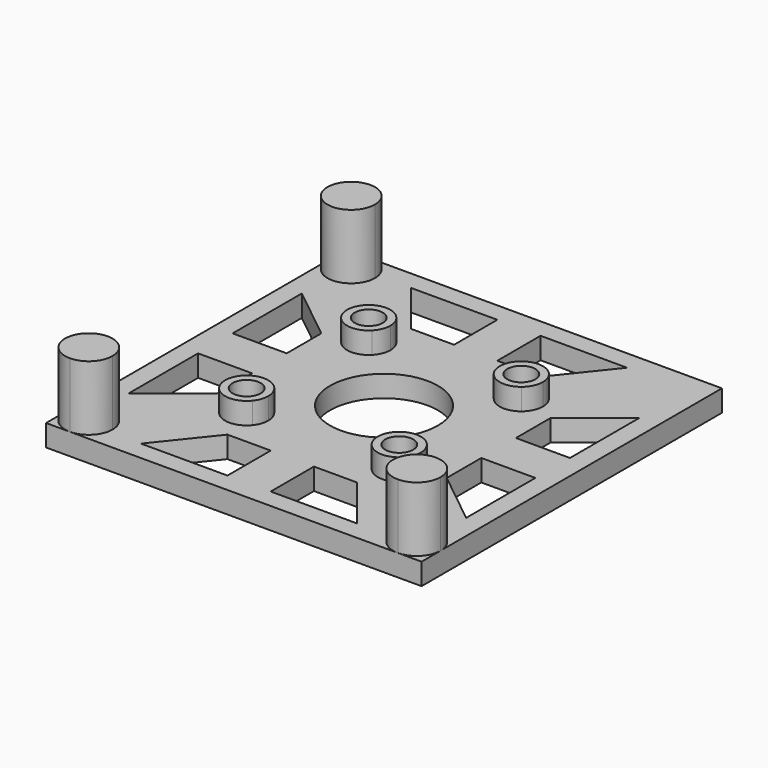
from build123d import *

# Parameters (mm, degrees)
F0_W      = 87
F0_H      = 87
F1_DEPTH  = 5
F3_DEPTH  = 5
F6_D      = 6.5
F8_DEPTH  = 15
F9_R      = 12.5
F10_DEPTH = 5


with BuildPart() as f1:
    # F0 (on Top) → F1 (new body)
    with BuildSketch(Plane.XY):
        Rectangle(F0_W, F0_H)
    extrude(amount=F1_DEPTH)

    # F2 (on face) → F3 (join)
    with BuildSketch(Plane.XY.offset(5)):
        with BuildLine():
            ThreePointArc((-17.67767, 17.67767), (-15.821292, 19.356826), (-13.806304, 20.841928))
            ThreePointArc((-13.806304, 20.841928), (-21.213203, 21.213203), (-20.841928, 13.806304))
            ThreePointArc((-20.841928, 13.806304), (-19.356826, 15.821292), (-17.67767, 17.67767))
        make_face()
        with BuildLine():
            ThreePointArc((-20.841928, 13.806304), (-17.427356, 12.683939), (-14.142136, 14.142136))
            Line((-14.142136, 14.142136), (-17.67767, 17.67767))
            ThreePointArc((-17.67767, 17.67767), (-19.356826, 15.821292), (-20.841928, 13.806304))
        make_face()
        with BuildLine():
            ThreePointArc((-12.67767, 17.67767), (-12.968273, 19.357428), (-13.806304, 20.841928))
            ThreePointArc((-13.806304, 20.841928), (-15.821292, 19.356826), (-17.67767, 17.67767))
            Line((-17.67767, 17.67767), (-14.142136, 14.142136))
            ThreePointArc((-14.142136, 14.142136), (-13.058272, 15.764252), (-12.67767, 17.67767))
        make_face()
        with BuildLine():
            ThreePointArc((-12.67767, -17.67767), (-13.058272, -15.764252), (-14.142136, -14.142136))
            Line((-14.142136, -14.142136), (-17.67767, -17.67767))
            ThreePointArc((-17.67767, -17.67767), (-15.821292, -19.356826), (-13.806304, -20.841928))
            ThreePointArc((-13.806304, -20.841928), (-12.968273, -19.357428), (-12.67767, -17.67767))
        make_face()
        with BuildLine():
            Line((-17.67767, -17.67767), (-14.142136, -14.142136))
            ThreePointArc((-14.142136, -14.142136), (-17.427356, -12.683939), (-20.841928, -13.806304))
            ThreePointArc((-20.841928, -13.806304), (-19.356826, -15.821292), (-17.67767, -17.67767))
        make_face()
        with BuildLine():
            ThreePointArc((-20.841928, -13.806304), (-21.213203, -21.213203), (-13.806304, -20.841928))
            ThreePointArc((-13.806304, -20.841928), (-15.821292, -19.356826), (-17.67767, -17.67767))
            ThreePointArc((-17.67767, -17.67767), (-19.356826, -15.821292), (-20.841928, -13.806304))
        make_face()
        with BuildLine():
            ThreePointArc((13.806304, -20.841928), (15.821292, -19.356826), (17.67767, -17.67767))
            Line((17.67767, -17.67767), (14.142136, -14.142136))
            ThreePointArc((14.142136, -14.142136), (12.683939, -17.427356), (13.806304, -20.841928))
        make_face()
        with BuildLine():
            ThreePointArc((17.67767, -17.67767), (19.356826, -15.821292), (20.841928, -13.806304))
            ThreePointArc((20.841928, -13.806304), (17.427356, -12.683939), (14.142136, -14.142136))
            Line((14.142136, -14.142136), (17.67767, -17.67767))
        make_face()
        with BuildLine():
            ThreePointArc((22.67767, -17.67767), (22.195484, -15.535392), (20.841928, -13.806304))
            ThreePointArc((20.841928, -13.806304), (19.356826, -15.821292), (17.67767, -17.67767))
            ThreePointArc((17.67767, -17.67767), (15.821292, -19.356826), (13.806304, -20.841928))
            ThreePointArc((13.806304, -20.841928), (19.357428, -22.387066), (22.67767, -17.67767))
        make_face()
        with BuildLine():
            ThreePointArc((17.67767, 17.67767), (19.356826, 15.821292), (20.841928, 13.806304))
            ThreePointArc((20.841928, 13.806304), (22.195484, 15.535392), (22.67767, 17.67767))
            ThreePointArc((22.67767, 17.67767), (19.357428, 22.387066), (13.806304, 20.841928))
            ThreePointArc((13.806304, 20.841928), (15.821292, 19.356826), (17.67767, 17.67767))
        make_face()
        with BuildLine():
            ThreePointArc((14.142136, 14.142136), (17.427356, 12.683939), (20.841928, 13.806304))
            ThreePointArc((20.841928, 13.806304), (19.356826, 15.821292), (17.67767, 17.67767))
            Line((17.67767, 17.67767), (14.142136, 14.142136))
        make_face()
        with BuildLine():
            Line((14.142136, 14.142136), (17.67767, 17.67767))
            ThreePointArc((17.67767, 17.67767), (15.821292, 19.356826), (13.806304, 20.841928))
            ThreePointArc((13.806304, 20.841928), (12.683939, 17.427356), (14.142136, 14.142136))
        make_face()
    extrude(amount=F3_DEPTH)

    # F6 (through all)
    with Locations(Plane.XY.offset(10)):
        with Locations((-17.67767, 17.67767), (17.67767, 17.67767), (17.67767, -17.67767), (-17.67767, -17.67767)):
            Hole(F6_D / 2)

    # F7 (on face) → F8 (join)
    with BuildSketch(Plane.XY.offset(5)):
        with BuildLine():
            ThreePointArc((-43.5, 38), (-38, 32.5), (-32.5, 38))
            ThreePointArc((-32.5, 38), (-34.110913, 41.889087), (-38, 43.5))
            ThreePointArc((-38, 43.5), (-41.889087, 41.889087), (-43.5, 38))
        make_face()
        with BuildLine():
            ThreePointArc((-32.5, -38), (-38, -32.5), (-43.5, -38))
            ThreePointArc((-43.5, -38), (-41.889087, -41.889087), (-38, -43.5))
            ThreePointArc((-38, -43.5), (-34.110913, -41.889087), (-32.5, -38))
        make_face()
        with BuildLine():
            ThreePointArc((38, -43.5), (41.889087, -41.889087), (43.5, -38))
            ThreePointArc((43.5, -38), (34.110913, -34.110913), (38, -43.5))
        make_face()
    extrude(amount=F8_DEPTH)

    # F9 (on face) → F10 (cut)
    with BuildSketch(Plane.XY.offset(5)):
        Polygon((5.01014, 39.079089), (5.01014, 26.55374), (15.030419, 26.55374), (25.050698, 39.079089), align=None)
        Polygon((-5.01014, 39.079089), (-25.050698, 39.079089), (-15.030419, 26.55374), (-5.01014, 26.55374), align=None)
        Polygon((26.55374, 15.030419), (26.55374, 5.01014), (39.079089, 5.01014), (39.079089, 25.050698), align=None)
        Polygon((39.079089, -5.01014), (26.55374, -5.01014), (26.55374, -15.030419), (39.079089, -25.050698), align=None)
        Polygon((-15.030419, -26.55374), (-25.050698, -39.079089), (-5.01014, -39.079089), (-5.01014, -26.55374), align=None)
        Polygon((5.01014, -26.55374), (5.01014, -39.079089), (25.050698, -39.079089), (15.030419, -26.55374), align=None)
        Polygon((-26.55374, 5.01014), (-26.55374, 15.030419), (-39.079089, 25.050698), (-39.079089, 5.01014), align=None)
        Polygon((-26.55374, -5.01014), (-39.079089, -5.01014), (-39.079089, -25.050698), (-26.55374, -15.030419), align=None)
        Circle(F9_R)
    extrude(amount=-F10_DEPTH, mode=Mode.SUBTRACT)


solid = f1.part
